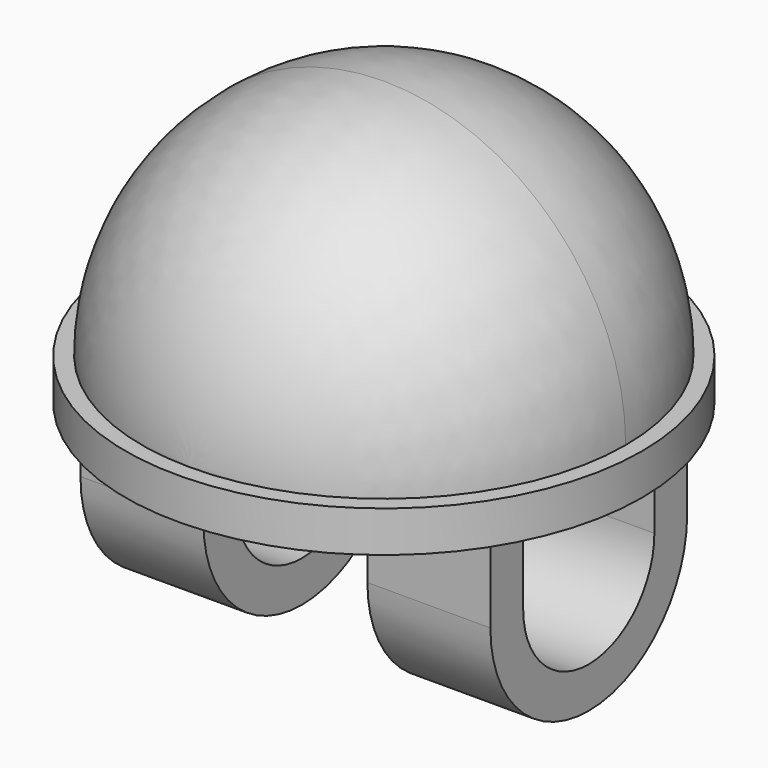
from build123d import *

# Parameters (mm, degrees)
F1_ANGLE  = 180
F2_R      = 31.5
F3_DEPTH  = 5
F4_W      = 15
F4_H      = 5
F5_DEPTH  = 10
F6_W      = 15
F6_H      = 5
F5_FACE_W = 15
F5_FACE_H = 5
F7_ANGLE  = 180


with BuildPart() as f1:
    # F0 (on Top) → F1 (revolve)
    with BuildSketch(Plane.XY):
        with BuildLine():
            ThreePointArc((0, -29.5), (20.85965, -20.85965), (29.5, 0))
            ThreePointArc((29.5, 0), (20.85965, 20.85965), (0, 29.5))
            Line((0, 29.5), (0, -29.5))
        make_face()
    revolve(axis=Axis((0, 0, 0), (0, -1, 0)), revolution_arc=F1_ANGLE)

    # F2 (on face) → F3 (join)
    with BuildSketch(Plane(origin=(0, 0, 0), x_dir=(1, 0, 0), z_dir=(0, 0, -1))):
        Circle(F2_R)
    extrude(amount=F3_DEPTH)

    # F4 (on face) → F5 (join)
    with BuildSketch(Plane(origin=(0, 0, -5), x_dir=(1, 0, 0), z_dir=(0, 0, -1))):
        with Locations((-17.5, 12.5)):
            Rectangle(F4_W, F4_H)
        with Locations((-17.5, -12.5)):
            Rectangle(F4_W, F4_H)
        with Locations((17.5, 12.5)):
            Rectangle(F4_W, F4_H)
        with Locations((17.5, -12.5)):
            Rectangle(F4_W, F4_H)
    extrude(amount=F5_DEPTH)

    # F6 (on face) + F5_face (on face) → F7 (revolve)
    with BuildSketch(Plane(origin=(0, 0, -15), x_dir=(1, 0, 0), z_dir=(0, 0, -1))):
        with Locations((-17.5, 12.5)):
            Rectangle(F6_W, F6_H)
    with BuildSketch(Plane(origin=(-17.5, -12.5, -15), x_dir=(1, 0, 0), z_dir=(0, 0, -1))):
        with Locations((35, 0)):
            Rectangle(F5_FACE_W, F5_FACE_H)
    revolve(axis=Axis((1.326716, 0, -15), (1, 0, 0)), revolution_arc=F7_ANGLE)


solid = f1.part
